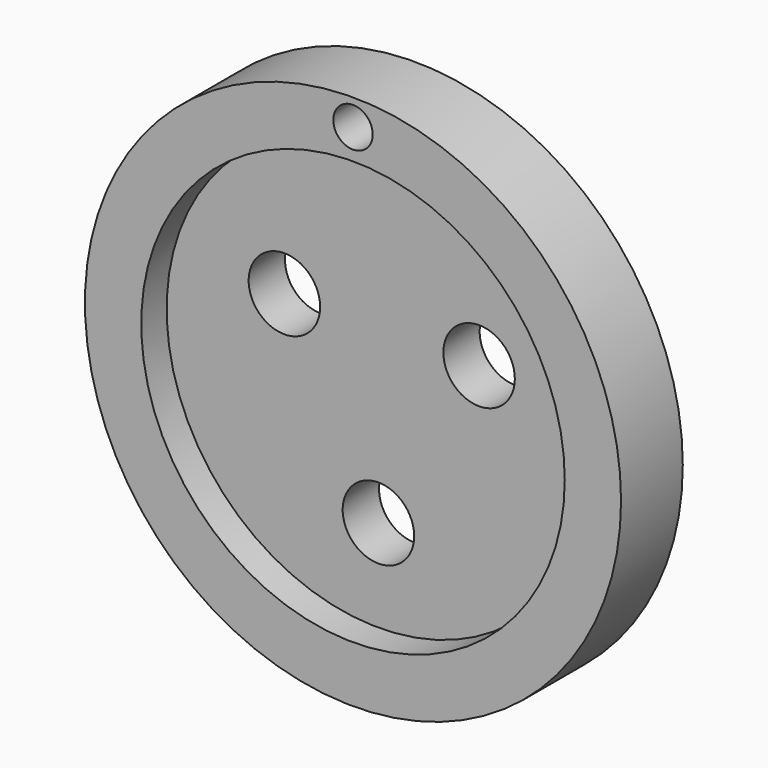
from build123d import *

# Parameters (mm, degrees)
F0_R     = 75
F1_DEPTH = 12.7
F2_R     = 75
F2_R_2   = 59.252001
F3_DEPTH = 8.89
F4_R     = 10
F5_DEPTH = 25.4
F6_R     = 5.510782
F7_DEPTH = 25.4


with BuildPart() as f1:
    # F0 (on Front) → F1 (new body)
    with BuildSketch(Plane.XZ):
        Circle(F0_R)
    extrude(amount=F1_DEPTH)

    # F2 (on face) → F3 (join)
    with BuildSketch(Plane.XZ.offset(12.7)):
        Circle(F2_R)
        Circle(F2_R_2, mode=Mode.SUBTRACT)
    extrude(amount=F3_DEPTH)

    # F4 (on face) → F5 (cut)
    with BuildSketch(Plane.XZ.offset(12.7)):
        with Locations((-26.308898, 14.438962)):
            Circle(F4_R)
        with Locations((28.165994, 14.438962)):
            Circle(F4_R)
        with Locations((0, -33.466256)):
            Circle(F4_R)
    extrude(amount=-F5_DEPTH, mode=Mode.SUBTRACT)

    # F6 (on face) → F7 (cut)
    with BuildSketch(Plane.XZ.offset(21.59)):
        with Locations((0, 67.629345)):
            Circle(F6_R)
    extrude(amount=-F7_DEPTH, mode=Mode.SUBTRACT)


solid = f1.part
